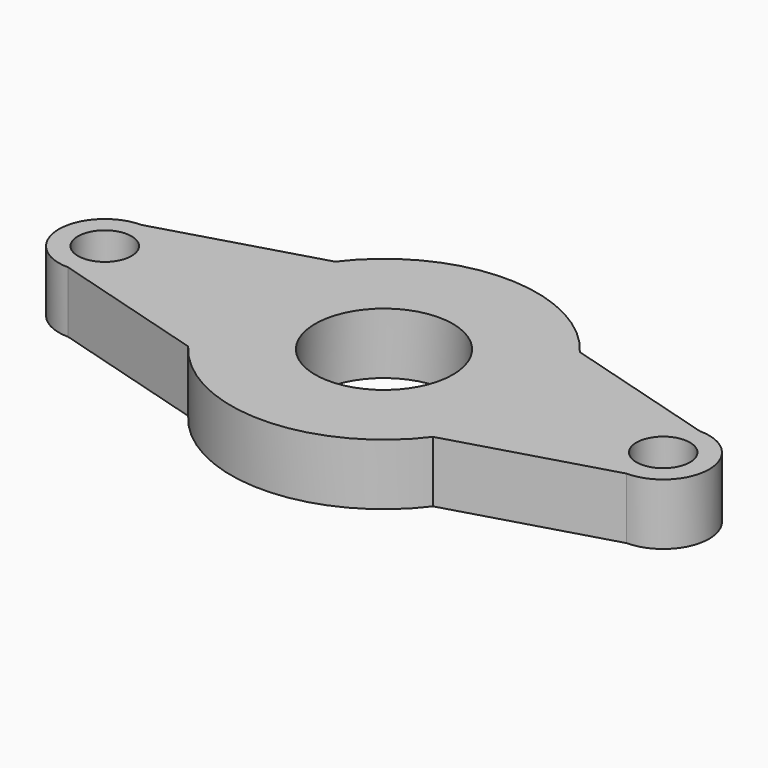
from build123d import *

# Parameters (mm, degrees)
F0_R     = 14.2875
F0_R_2   = 5.55625
F1_DEPTH = 12.7


with BuildPart() as f1:
    # F0 (on Top) → F1 (new body)
    with BuildSketch(Plane.XY):
        with BuildLine():
            ThreePointArc((25.4, -19.05), (30.120695, -10.040232), (31.75, 0))
            ThreePointArc((31.75, 0), (30.120695, 10.040232), (25.4, 19.05))
            ThreePointArc((25.4, 19.05), (0, 31.75), (-25.4, 19.05))
            ThreePointArc((-25.4, 19.05), (-31.75, 0), (-25.4, -19.05))
            ThreePointArc((-25.4, -19.05), (0, -31.75), (25.4, -19.05))
        make_face()
        Circle(F0_R, mode=Mode.SUBTRACT)
        with BuildLine():
            ThreePointArc((-25.4, -19.05), (-31.75, 0), (-25.4, 19.05))
            Line((-25.4, 19.05), (-57.94375, 9.525))
            ThreePointArc((-57.94375, 9.525), (-67.46875, 0), (-57.94375, -9.525))
            Line((-57.94375, -9.525), (-25.4, -19.05))
        make_face()
        with Locations((-57.94375, 0)):
            Circle(F0_R_2, mode=Mode.SUBTRACT)
        with BuildLine():
            ThreePointArc((25.4, 19.05), (30.120695, 10.040232), (31.75, 0))
            ThreePointArc((31.75, 0), (30.120695, -10.040232), (25.4, -19.05))
            Line((25.4, -19.05), (57.94375, -9.525))
            ThreePointArc((57.94375, -9.525), (67.46875, 0), (57.94375, 9.525))
            Line((57.94375, 9.525), (25.4, 19.05))
        make_face()
        with Locations((57.94375, 0)):
            Circle(F0_R_2, mode=Mode.SUBTRACT)
    extrude(amount=F1_DEPTH)


solid = f1.part
